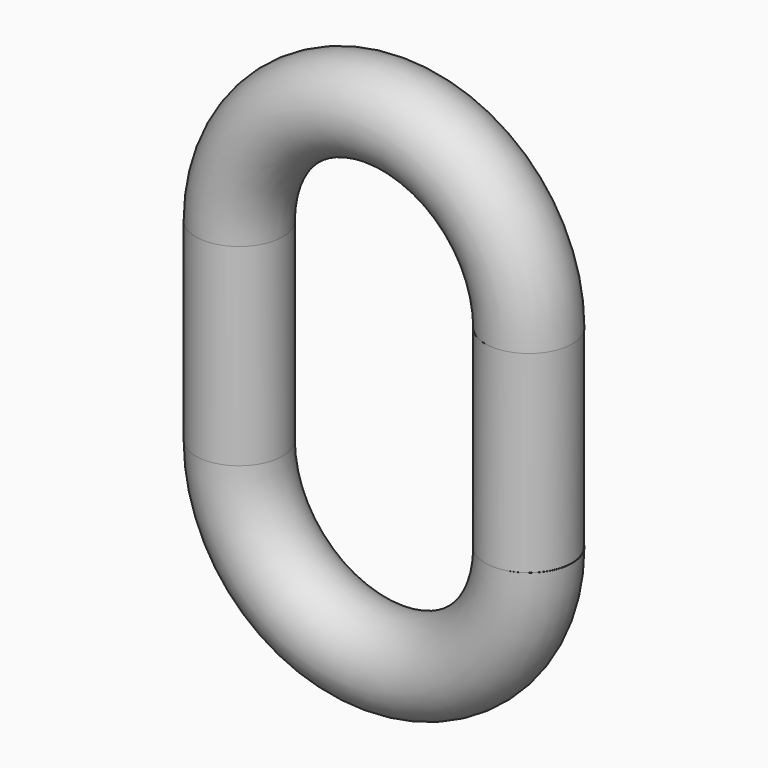
from build123d import *

# Parameters (mm, degrees)
F0_R     = 4.5
F1_ANGLE = 180
F2_R     = 4.5
F3_DEPTH = 20
F4_R     = 4.5
F5_ANGLE = -180


with BuildPart() as f1:
    # F0 (on Top) → F1 (revolve)
    with BuildSketch(Plane.XY):
        Circle(F0_R)
    revolve(axis=Axis((15, -1.705776, 0), (0, -1, 0)), revolution_arc=F1_ANGLE)

    # F2 (on face) → F3 (join)
    with BuildSketch(Plane.XY):
        with Locations((29.965192, 0)):
            Circle(F2_R)
        Circle(F2_R)
    extrude(amount=F3_DEPTH)

    # F4 (on face) → F5 (revolve)
    with BuildSketch(Plane.XY.offset(20)):
        Circle(F4_R)
    revolve(axis=Axis((15, -0.568592, 20), (0, -1, 0)), revolution_arc=F5_ANGLE)


solid = f1.part
